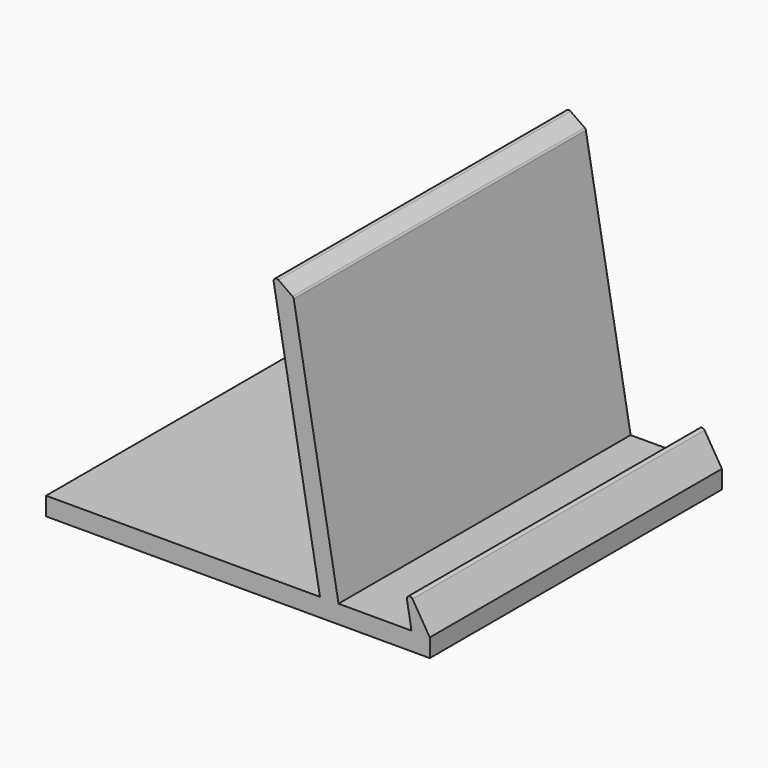
from build123d import *

# Parameters (mm, degrees)
F1_DEPTH = 30
F2_R     = 0.5


with BuildPart() as f1:
    # F0 (on Front) → F1 (new body, symmetric)
    with BuildSketch(Plane.XZ):
        Polygon((-63.04628, 0), (0, 0), (0, 3), (-4.215537, 9.893654), (-3, 3), (-15, 3), (-22.38508, 44.88287), (-25.860448, 47.316349), (-18.04628, 3), (-63.04628, 3), align=None)
    extrude(amount=F1_DEPTH, both=True)

    # F2
    f2_edges = [f1.edges().sort_by_distance(p)[0] for p in [
        (-22.38508, 0, 44.88287),
        (-4.215537, 0, 9.893654),
        (-25.860448, 0, 47.316349),
    ]]
    fillet(f2_edges, radius=F2_R)


solid = f1.part
